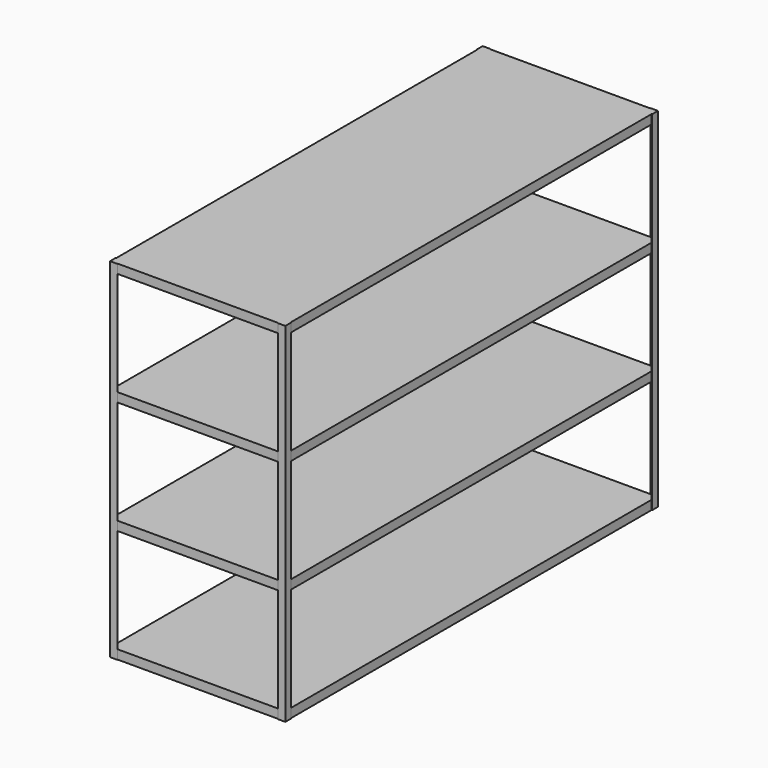
from build123d import *

# Parameters (mm, degrees)
F0_W      = 914.4
F0_H      = 2438.4
F1_DEPTH  = 47.625
F3_DEPTH  = 1828.8
F5_W      = 914.4
F5_H      = 2438.4
F6_DEPTH  = 47.625
F8_W      = 914.4
F8_H      = 2438.4
F9_DEPTH  = 47.625
F11_W     = 914.4
F11_H     = 2438.4
F12_DEPTH = 47.625


with BuildPart() as f1:
    # F0 (on Top) → F1 (new body)
    with BuildSketch(Plane.XY):
        Rectangle(F0_W, F0_H)
    extrude(amount=F1_DEPTH)

    # F2 (on Top) → F3 (join)
    with BuildSketch(Plane.XY):
        Polygon((459.74, 1221.74), (421.64, 1221.74), (421.64, 1219.2), (457.2, 1219.2), (457.2, 1183.64), (459.74, 1183.64), align=None)
        Polygon((-421.64, 1221.74), (-459.74, 1221.74), (-459.74, 1183.64), (-457.2, 1183.64), (-457.2, 1219.2), (-421.64, 1219.2), align=None)
        Polygon((421.64, -1219.2), (421.64, -1221.74), (459.74, -1221.74), (459.74, -1183.64), (457.2, -1183.64), (457.2, -1219.2), align=None)
        Polygon((-457.2, -1183.64), (-459.74, -1183.64), (-459.74, -1221.74), (-421.64, -1221.74), (-421.64, -1219.2), (-457.2, -1219.2), align=None)
    extrude(amount=F3_DEPTH)

    # F5 (on offset) → F6 (join)
    with BuildSketch(Plane.XY.offset(593.725)):
        Rectangle(F5_W, F5_H)
    extrude(amount=F6_DEPTH)

    # F8 (on offset) → F9 (join)
    with BuildSketch(Plane.XY.offset(1187.45)):
        Rectangle(F8_W, F8_H)
    extrude(amount=F9_DEPTH)

    # F11 (on offset) → F12 (join)
    with BuildSketch(Plane.XY.offset(1781.175)):
        Rectangle(F11_W, F11_H)
    extrude(amount=F12_DEPTH)


solid = f1.part
